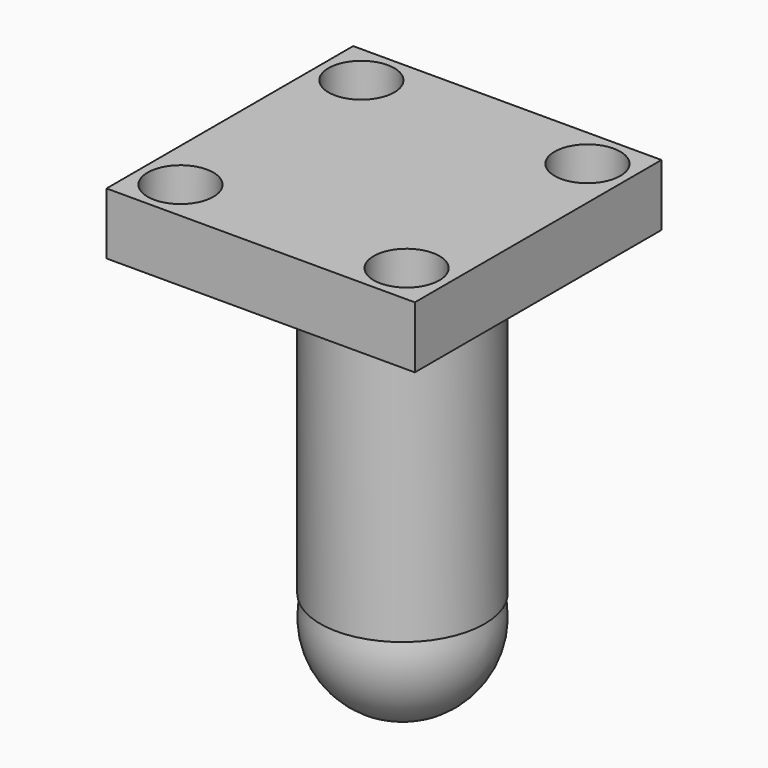
from build123d import *

# Parameters (mm, degrees)
CYLINDER115_R     = 1.6
CYLINDER115_DEPTH = 10
CYLINDER116_R     = 1.6
CYLINDER116_DEPTH = 10
CYLINDER117_R     = 1.6
CYLINDER117_DEPTH = 10
CYLINDER114_R     = 1.6
CYLINDER114_DEPTH = 10
BOX029_W          = 15
BOX029_H          = 15
BOX029_DEPTH      = 3
CYLINDER113_R     = 4
CYLINDER113_DEPTH = 15


with BuildPart() as cilindro115:
    # Cylinder115 → Cylinder115 (new body)
    with BuildSketch(Plane(origin=(32, 5, -20), x_dir=(1, 0, 0), z_dir=(0, 0, 1))):
        Circle(CYLINDER115_R)
    extrude(amount=CYLINDER115_DEPTH)


with BuildPart() as cilindro116:
    # Cylinder116 → Cylinder116 (new body)
    with BuildSketch(Plane(origin=(21, -6, -20), x_dir=(1, 0, 0), z_dir=(0, 0, 1))):
        Circle(CYLINDER116_R)
    extrude(amount=CYLINDER116_DEPTH)


with BuildPart() as cilindro117:
    # Cylinder117 → Cylinder117 (new body)
    with BuildSketch(Plane(origin=(21, 5, -20), x_dir=(1, 0, 0), z_dir=(0, 0, 1))):
        Circle(CYLINDER117_R)
    extrude(amount=CYLINDER117_DEPTH)


with BuildPart() as fusion058:
    # Cylinder114 → Cylinder114 (new body)
    with BuildSketch(Plane(origin=(32, -6, -20), x_dir=(1, 0, 0), z_dir=(0, 0, 1))):
        Circle(CYLINDER114_R)
    extrude(amount=CYLINDER114_DEPTH)

    # Fusion058: union Cilindro115, Cilindro116, Cilindro117
    add(cilindro115.part)
    add(cilindro116.part)
    add(cilindro117.part)


with BuildPart() as cubo028:
    # Box029 → Box029 (new body)
    with BuildSketch(Plane(origin=(-8, -8, 4), x_dir=(1, 0, 0), z_dir=(0, 0, 1))):
        with Locations((7.5, 7.5)):
            Rectangle(BOX029_W, BOX029_H)
    extrude(amount=BOX029_DEPTH)


with BuildPart() as esfera001:
    # Sphere001 → Sphere001 (revolve)
    with BuildSketch(Plane(origin=(0, 0, -16), x_dir=(1, 0, 0), z_dir=(0, -1, 0))):
        with BuildLine():
            ThreePointArc((0, -4), (4, 0), (0, 4))
            Line((0, 4), (0, -4))
        make_face()
    revolve(axis=Axis((0, 0, -16), (0, 0, 1)))


with BuildPart() as obj1:
    # Cylinder113 → Cylinder113 (new body)
    with BuildSketch(Plane.XY.offset(-15)):
        Circle(CYLINDER113_R)
    extrude(amount=CYLINDER113_DEPTH)

    # Fusion059: union Esfera001
    add(esfera001.part)


with BuildPart() as obj1_1:
    # Fusion059 placement: moved
    add(obj1.part.moved(Location((0, 0, 4))))

    # Fusion060: union Cubo028
    add(cubo028.part)


with BuildPart() as obj1_2:
    # Fusion060 placement: moved
    add(obj1_1.part.moved(Location((27, 0, -22))))

    # Cut019: cut Fusion058
    add(fusion058.part, mode=Mode.SUBTRACT)


with BuildPart() as obj1_3:
    # Cut019 placement: moved
    add(obj1_2.part.moved(Location((-81, 0.5, 0))))


solid = obj1_3.part
